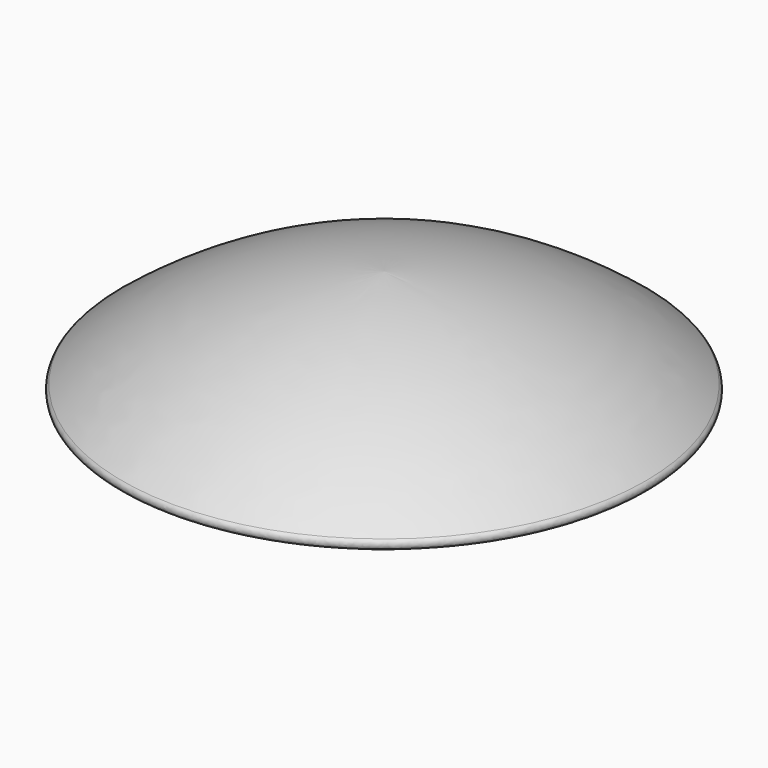
from build123d import *

# Parameters (mm, degrees)
F2_R    = 0.25
F3_SIZE = 0.25


with BuildPart() as f1:
    # F0 (on Front) → F1 (revolve)
    with BuildSketch(Plane.XZ):
        with BuildLine():
            Line((8.75, -1.282336), (8.75, 0.217664))
            Line((8.75, 0.217664), (8.75, 0.717664))
            Line((8.75, 0.717664), (9.75, 0.717664))
            Line((9.75, 0.717664), (9.75, 0.217664))
            Line((9.75, 0.217664), (12, 0.217664))
            ThreePointArc((12, 0.217664), (6.396738, 3.604341), (0, 5))
            Line((0, 5), (0, -1.282336))
            Line((0, -1.282336), (8.75, -1.282336))
        make_face()
    revolve(axis=Axis((0, 0, 1.858832), (0, 0, 1)))

    # F2
    f2_edges = [f1.edges().sort_by_distance(p)[0] for p in [
        (-12, 0, 0.217664),
    ]]
    fillet(f2_edges, radius=F2_R)

    # F3
    f3_edges = [f1.edges().sort_by_distance(p)[0] for p in [
        (-8.75, 0, -1.282336),
    ]]
    chamfer(f3_edges, length=F3_SIZE)


solid = f1.part
